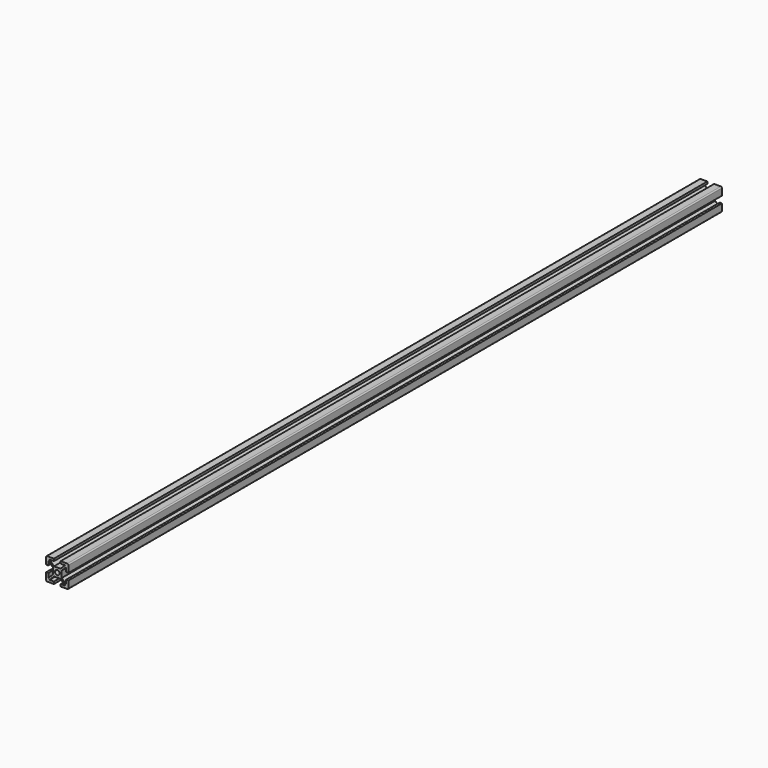
from build123d import *

# Parameters (mm, degrees)
F0_R     = 2.1
F1_DEPTH = 730


with BuildPart() as f1:
    # F0 (on Front) → F1 (new body)
    with BuildSketch(Plane.XZ):
        with BuildLine():
            ThreePointArc((9.944745, 8.840758), (9.651851, 9.547865), (8.944745, 9.840758))
            Line((8.944745, 9.840758), (2.944745, 9.840758))
            Line((2.944745, 9.840758), (2.944745, 7.840758))
            Line((2.944745, 7.840758), (6.884085, 7.840758))
            Line((6.884085, 7.840758), (2.884085, 3.840758))
            Line((2.884085, 3.840758), (-2.994595, 3.840758))
            Line((-2.994595, 3.840758), (-6.994595, 7.840758))
            Line((-6.994595, 7.840758), (-3.055255, 7.840758))
            Line((-3.055255, 7.840758), (-3.055255, 9.840758))
            Line((-3.055255, 9.840758), (-9.055255, 9.840758))
            ThreePointArc((-9.055255, 9.840758), (-9.762362, 9.547865), (-10.055255, 8.840758))
            Line((-10.055255, 8.840758), (-10.055255, 2.840758))
            Line((-10.055255, 2.840758), (-8.055255, 2.840758))
            Line((-8.055255, 2.840758), (-8.055255, 6.780098))
            Line((-8.055255, 6.780098), (-4.055255, 2.780098))
            Line((-4.055255, 2.780098), (-4.055255, -3.098581))
            Line((-4.055255, -3.098581), (-8.055255, -7.098581))
            Line((-8.055255, -7.098581), (-8.055255, -3.159242))
            Line((-8.055255, -3.159242), (-10.055255, -3.159242))
            Line((-10.055255, -3.159242), (-10.055255, -9.159242))
            ThreePointArc((-10.055255, -9.159242), (-9.762362, -9.866348), (-9.055255, -10.159242))
            Line((-9.055255, -10.159242), (-3.055255, -10.159242))
            Line((-3.055255, -10.159242), (-3.055255, -8.159242))
            Line((-3.055255, -8.159242), (-6.994595, -8.159242))
            Line((-6.994595, -8.159242), (-2.994595, -4.159242))
            Line((-2.994595, -4.159242), (2.884085, -4.159242))
            Line((2.884085, -4.159242), (6.884085, -8.159242))
            Line((6.884085, -8.159242), (2.944745, -8.159242))
            Line((2.944745, -8.159242), (2.944745, -10.159242))
            Line((2.944745, -10.159242), (8.944745, -10.159242))
            ThreePointArc((8.944745, -10.159242), (9.651851, -9.866348), (9.944745, -9.159242))
            Line((9.944745, -9.159242), (9.944745, -3.159242))
            Line((9.944745, -3.159242), (7.944745, -3.159242))
            Line((7.944745, -3.159242), (7.944745, -7.098581))
            Line((7.944745, -7.098581), (3.944745, -3.098581))
            Line((3.944745, -3.098581), (3.944745, 2.780098))
            Line((3.944745, 2.780098), (7.944745, 6.780098))
            Line((7.944745, 6.780098), (7.944745, 2.840758))
            Line((7.944745, 2.840758), (9.944745, 2.840758))
            Line((9.944745, 2.840758), (9.944745, 8.840758))
        make_face()
        with Locations((-0.055255, -0.159242)):
            Circle(F0_R, mode=Mode.SUBTRACT)
    extrude(amount=F1_DEPTH)


solid = f1.part
